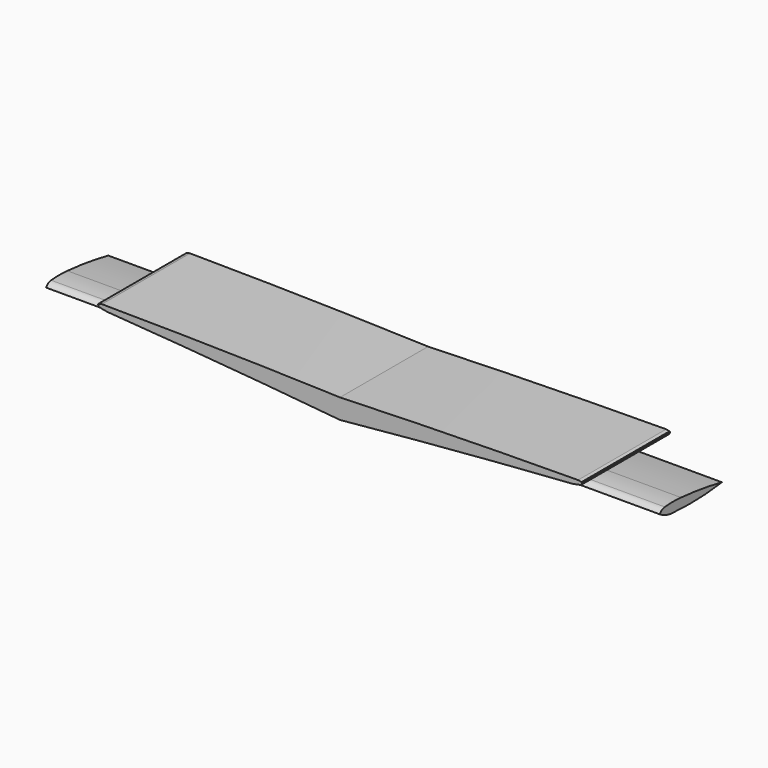
from build123d import *

# Parameters (mm, degrees)
F2_DEPTH      = 16
F2_DEPTH_BACK = 17
F3_DEPTH      = 92
F3_DEPTH_BACK = 92


with BuildPart() as f2:
    # F0 (on Front) → F2 (new body, two sides)
    with BuildSketch(Plane.XZ) as f2_sk:
        with BuildLine():
            Line((-0.026406, 0.74202), (-0.026406, 6.698384))
            ThreePointArc((-0.026406, 6.698384), (-35.713469, 7.641416), (-71.410164, 8.090585))
            Line((-71.410164, 8.090585), (-72.417386, 7.88229))
            Line((-72.417386, 7.88229), (-72.62823, 7.633112))
            Line((-72.62823, 7.633112), (-72.264045, 7.058086))
            Line((-72.264045, 7.058086), (-71.113996, 6.808909))
            Line((-71.113996, 6.808909), (-69.730029, 6.568945))
            ThreePointArc((-69.730029, 6.568945), (-34.858758, 3.888259), (-0.026406, 0.74202))
        make_face()
        with BuildLine():
            ThreePointArc((71.357352, 8.090585), (35.660657, 7.641416), (-0.026406, 6.698384))
            Line((-0.026406, 6.698384), (-0.026406, 0.74202))
            ThreePointArc((-0.026406, 0.74202), (34.805946, 3.888259), (69.677217, 6.568945))
            Line((69.677217, 6.568945), (71.061184, 6.808909))
            Line((71.061184, 6.808909), (72.211234, 7.058086))
            Line((72.211234, 7.058086), (72.575418, 7.633112))
            Line((72.575418, 7.633112), (72.364574, 7.88229))
            Line((72.364574, 7.88229), (71.357352, 8.090585))
        make_face()
    extrude(amount=F2_DEPTH)
    extrude(f2_sk.sketch, amount=-F2_DEPTH_BACK)

    # F1 (on Right) → F3 (join, two sides)
    with BuildSketch(Plane.YZ) as f3_sk:
        with BuildLine():
            ThreePointArc((-9.328114, 4.993237), (-10.40461, 4.624412), (-11.197234, 3.807941))
            ThreePointArc((-11.197234, 3.807941), (-8.738993, 2.630794), (-6.045756, 2.212351))
            ThreePointArc((-6.045756, 2.212351), (3.042132, 2.024395), (12.098384, 2.804999))
            ThreePointArc((12.098384, 2.804999), (4.474335, 4.142608), (-3.219282, 4.993237))
            ThreePointArc((-3.219282, 4.993237), (-6.273698, 5.133782), (-9.328114, 4.993237))
        make_face()
    extrude(amount=F3_DEPTH)
    extrude(f3_sk.sketch, amount=-F3_DEPTH_BACK)


solid = f2.part
